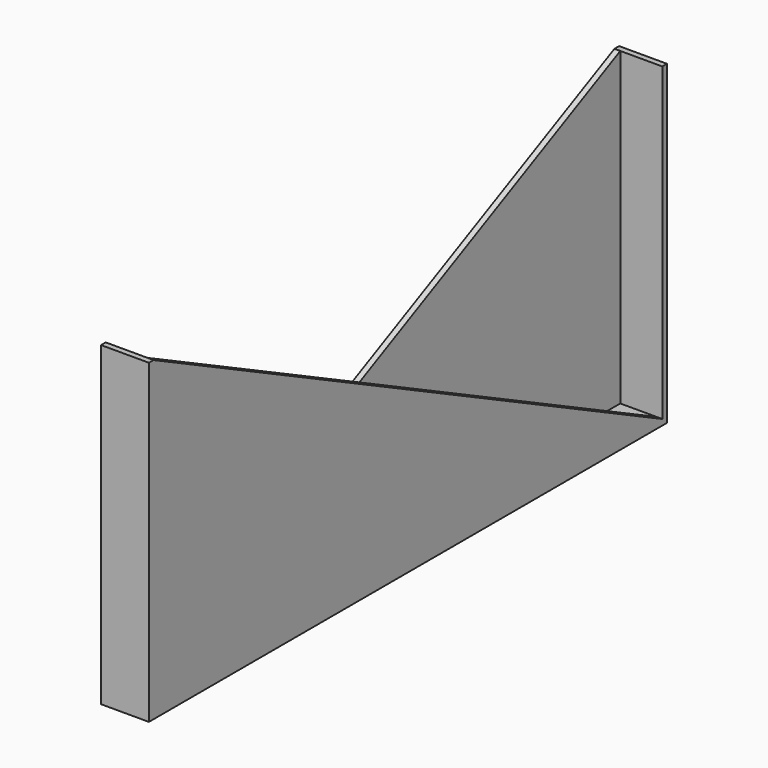
from build123d import *

# Parameters (mm, degrees)
F0_W     = 10.414
F0_H     = 140.97
F1_DEPTH = 1.27
F2_W     = 10.414
F2_H     = 1.27
F3_DEPTH = 67.564
F4_DEPTH = 67.564
F6_DEPTH = 1.27
F8_DEPTH = 1.27


with BuildPart() as f1:
    # F0 (on Top) → F1 (new body)
    with BuildSketch(Plane.XY):
        Rectangle(F0_W, F0_H)
    extrude(amount=F1_DEPTH)

    # F2 (on face) → F3 (join)
    with BuildSketch(Plane.XY.offset(1.27)):
        with Locations((0, -69.85)):
            Rectangle(F2_W, F2_H)
    extrude(amount=F3_DEPTH)

    # F2 (on face) → F4 (join)
    with BuildSketch(Plane.XY.offset(1.27)):
        with Locations((0, 69.85)):
            Rectangle(F2_W, F2_H)
    extrude(amount=F4_DEPTH)

    # F5 (on face) → F6 (join)
    with BuildSketch(Plane.YZ.offset(5.207)):
        Polygon((69.215, 1.27), (-69.215, 68.834), (-69.215, 1.27), align=None)
    extrude(amount=-F6_DEPTH)

    # F7 (on face) → F8 (join)
    with BuildSketch(Plane(origin=(-5.207, 0, 0), x_dir=(0, -1, 0), z_dir=(-1, 0, 0))):
        Polygon((69.215, 1.27), (-69.215, 68.834), (-69.215, 1.27), align=None)
    extrude(amount=-F8_DEPTH)


solid = f1.part
